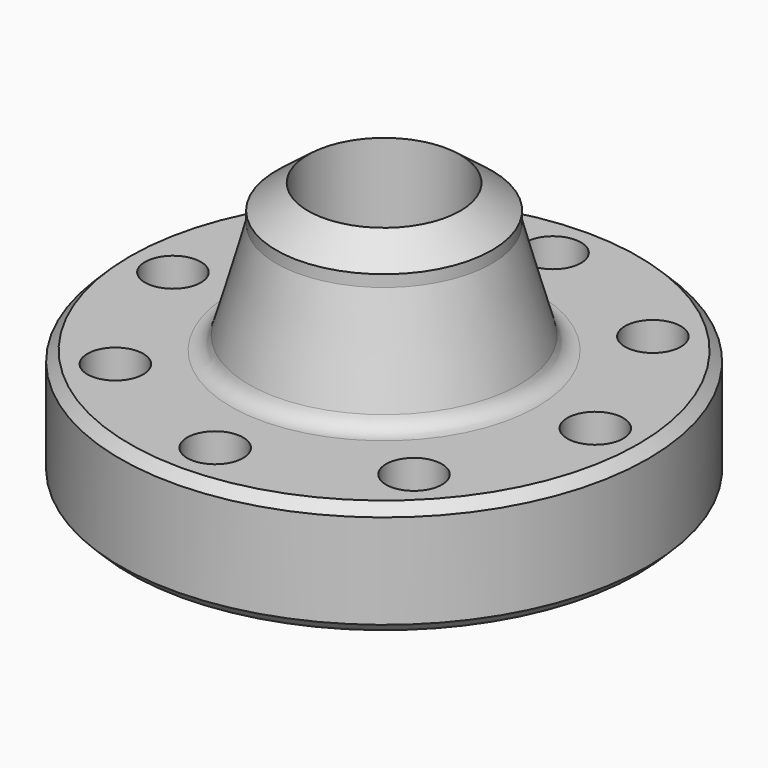
from build123d import *

# Parameters (mm, degrees)
F3_D    = 28.575
F4_R    = 9.525
F5_SIZE = 5
F6_SIZE = 5


with BuildPart() as f1:
    # F0 (on Front) → F1 (revolve)
    with BuildSketch(Plane.XZ):
        Polygon((38.89502, 109.5), (38.89502, -31.724), (44.1071, -31.724), (47.308175, -24.18274), (56.298425, -24.18274), (59.4995, -31.724), (76.2, -31.724), (76.2, -24.1802), (134.9375, -24.1802), (134.9375, 34.16106), (71.04126, 34.16106), (55.11292, 91.055568), (55.11292, 97.055568), align=None)
    revolve(axis=Axis((0, 0, 78.919753), (0, 0, 1)))

    # F3 (through all)
    with Locations(Plane.XY.offset(34.16106)):
        with Locations((0, 107.95), (76.332177, 76.332177), (107.95, 0), (76.332177, -76.332177), (0, -107.95), (-76.332177, -76.332177), (-107.95, 0), (-76.332177, 76.332177)):
            Hole(F3_D / 2)

    # F4
    f4_edges = [f1.edges().sort_by_distance(p)[0] for p in [
        (-71.04126, 0, 34.16106),
    ]]
    fillet(f4_edges, radius=F4_R)

    # F5
    f5_edges = [f1.edges().sort_by_distance(p)[0] for p in [
        (-134.9375, 0, -24.1802),
    ]]
    chamfer(f5_edges, length=F5_SIZE)

    # F6
    f6_edges = [f1.edges().sort_by_distance(p)[0] for p in [
        (-134.9375, 0, 34.16106),
    ]]
    chamfer(f6_edges, length=F6_SIZE)


solid = f1.part
